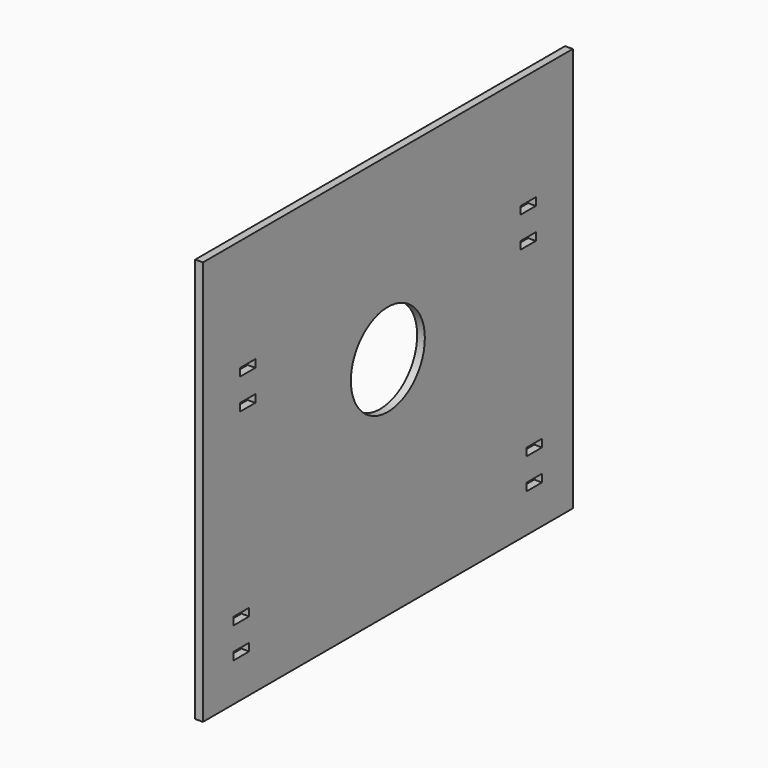
from build123d import *

# Parameters (mm, degrees)
F1_DEPTH = 2
F2_W     = 5
F2_H     = 2
F3_DEPTH = 25
F4_W     = 5
F4_H     = 2
F5_DEPTH = 25
F6_R     = 12
F7_DEPTH = 25


with BuildPart() as f1:
    # F0 (on Right) → F1 (new body)
    with BuildSketch(Plane.YZ):
        Polygon((60, 46.556178), (0, 46.556178), (-60, 46.556178), (-60, -58.443822), (0, -58.443822), (60, -58.443822), align=None)
    extrude(amount=F1_DEPTH)

    # F2 (on face) → F3 (cut)
    with BuildSketch(Plane.YZ.offset(2)):
        with Locations((-47.5, -47.443822)):
            Rectangle(F2_W, F2_H)
        with Locations((47.5, -47.443822)):
            Rectangle(F2_W, F2_H)
        with Locations((-47.5, -39.443822)):
            Rectangle(F2_W, F2_H)
        with Locations((47.5, -39.443822)):
            Rectangle(F2_W, F2_H)
    extrude(amount=-F3_DEPTH, mode=Mode.SUBTRACT)

    # F4 (on face) → F5 (cut)
    with BuildSketch(Plane.YZ.offset(2)):
        with Locations((-45.5, 8.556178)):
            Rectangle(F4_W, F4_H)
        with Locations((-45.5, 16.556178)):
            Rectangle(F4_W, F4_H)
        with Locations((45.5, 8.556178)):
            Rectangle(F4_W, F4_H)
        with Locations((45.5, 16.556178)):
            Rectangle(F4_W, F4_H)
    extrude(amount=-F5_DEPTH, mode=Mode.SUBTRACT)

    # F6 (on face) → F7 (cut)
    with BuildSketch(Plane.YZ.offset(2)):
        Circle(F6_R)
    extrude(amount=-F7_DEPTH, mode=Mode.SUBTRACT)


solid = f1.part
